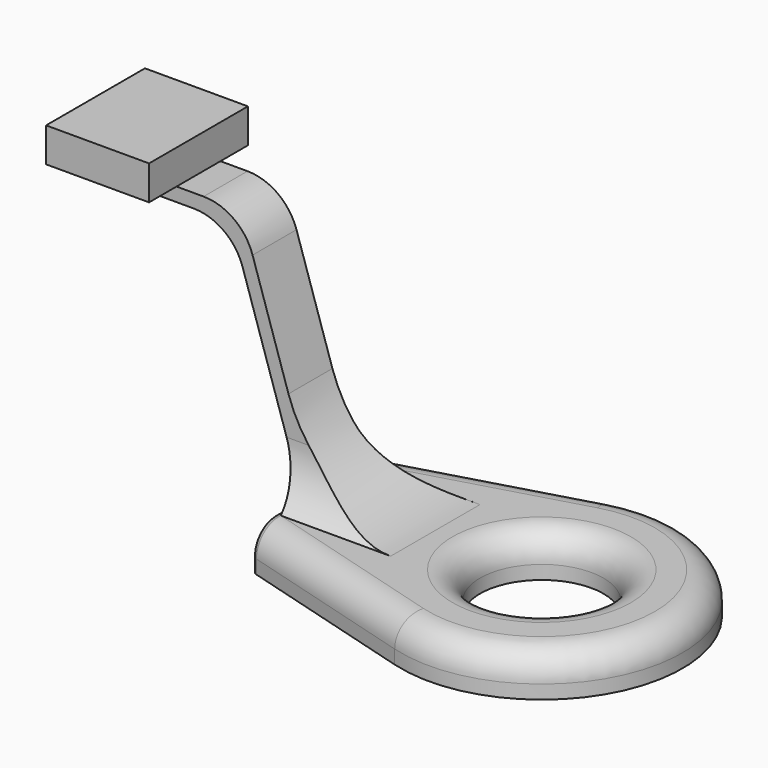
from build123d import *

# Parameters (mm, degrees)
SKETCH_R     = 20
PAD_DEPTH    = 10
FILLET_R     = 6
THICKNESS_T  = 2
PAD001_DEPTH = 20
POCKET_DEPTH = 124.001
SKETCH003_W  = 30
SKETCH003_H  = 36
PAD002_DEPTH = 10


with BuildPart() as part:
    # Sketch → Pad (new body)
    with BuildSketch(Plane.XY):
        with BuildLine():
            ThreePointArc((-10.749857, -37.489206), (39, 0), (-10.749857, 37.489206))
            Line((-10.749857, 37.489206), (-63, 22.506719))
            Line((-63, 22.506719), (-63, -22.506719))
            Line((-63, -22.506719), (-10.749857, -37.489206))
        make_face()
        Circle(SKETCH_R, mode=Mode.SUBTRACT)
    extrude(amount=PAD_DEPTH)

    # Fillet
    fillet_edges = [part.edges().sort_by_distance(p)[0] for p in [
        (-36.874928, -29.997962, 10),
        (39, 0, 10),
        (-36.874928, 29.997962, 10),
        (-20, 0, 10),
    ]]
    fillet(fillet_edges, radius=FILLET_R)

    # Thickness
    thickness_openings = [part.faces().sort_by_distance(p)[0] for p in [
        (-14.455542, 0, 0),
    ]]
    offset(amount=THICKNESS_T, openings=thickness_openings)

    # Sketch001 → Pad001 (join, symmetric)
    with BuildSketch(Plane.XZ):
        with BuildLine():
            Line((-63, 12), (-80.75207, 66.635255))
            ThreePointArc((-80.75207, 66.635255), (-86.201139, 74.135255), (-95.017918, 77))
            Line((-95.017918, 77), (-124, 77))
            Line((-124, 77), (-124, 81))
            Line((-124, 81), (-92.111748, 81))
            ThreePointArc((-77.8459, 70.635255), (-83.294969, 78.135255), (-92.111748, 81))
            Line((-77.8459, 70.635255), (-67.383016, 38.433809))
            ThreePointArc((-67.383016, 38.433809), (-53.485941, 19.306125), (-31, 12))
            Line((-63, 12), (-31, 12))
        make_face()
    extrude(amount=PAD001_DEPTH, both=True)

    # Sketch002 → Pocket (cut, through all)
    with BuildSketch(Plane.YZ):
        with BuildLine():
            Line((8, 94.265679), (8, 27.140286))
            ThreePointArc((8, 27.140286), (10.200769, 18.515653), (16.264922, 12))
            Line((16.264922, 12), (86.307831, 12))
            Line((86.307831, 124.281616), (86.307831, 12))
            Line((-95.791176, 124.281616), (86.307831, 124.281616))
            Line((-95.791176, 12), (-95.791176, 124.281616))
            Line((-16.264922, 12), (-95.791176, 12))
            ThreePointArc((-16.264922, 12), (-10.200769, 18.515653), (-8, 27.140286))
            Line((-8, 27.140286), (-8, 94.265679))
            Line((-8, 94.265679), (8, 94.265679))
        make_face()
    extrude(amount=-POCKET_DEPTH, mode=Mode.SUBTRACT)

    # Sketch003 (on Face43 of Pocket) → Pad002 (join)
    with BuildSketch(Plane.XY.offset(81)):
        with Locations((-115, 0)):
            Rectangle(SKETCH003_W, SKETCH003_H)
    extrude(amount=PAD002_DEPTH)


solid = part.part
